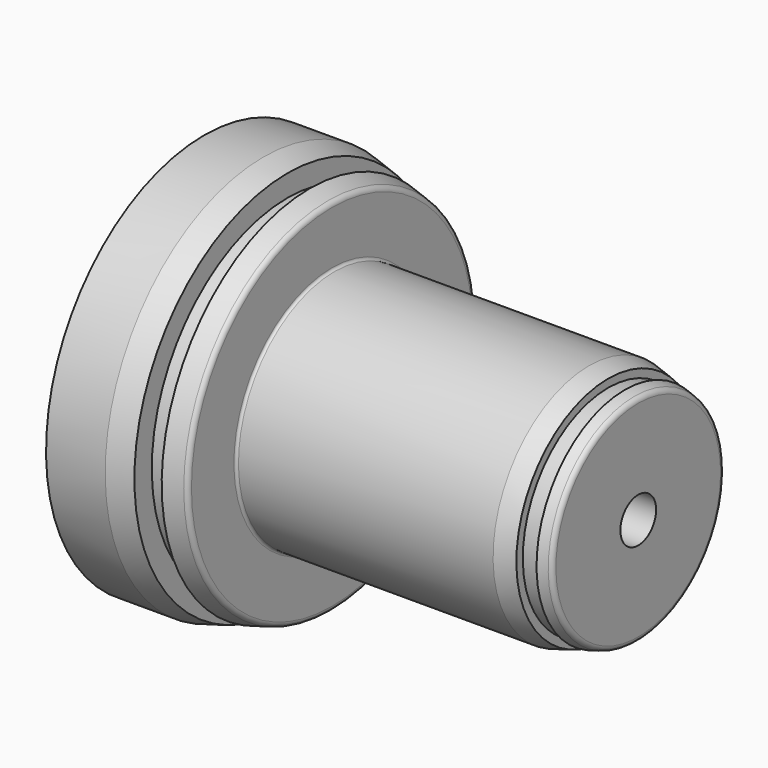
from build123d import *

# Parameters (mm, degrees)
F3_D     = 17.5
F3_DEPTH = 32
F3_TIP   = 5.2575304165
F5_D     = 17.5
F5_DEPTH = 32
F5_TIP   = 5.2575304165


with BuildPart() as f1:
    # F0 (on Front) → F1 (revolve)
    with BuildSketch(Plane.XZ):
        with BuildLine():
            Line((0, 77.5), (0, 0))
            Line((0, 0), (170, 0))
            Line((170, 0), (170, 40.304846024))
            ThreePointArc((170, 40.304846024), (169.5867066806, 41.5223688821), (168.5176380902, 42.2366976766))
            Line((168.5176380902, 42.2366976766), (164.75, 43.2462332603))
            Line((164.75, 43.2462332603), (164.75, 41.8395))
            Line((164.75, 41.8395), (158.25, 41.8395))
            Line((158.25, 41.8395), (158.25, 44.9879030111))
            Line((158.25, 44.9879030111), (150.7407518075, 47))
            Line((150.7407518075, 47), (51, 47))
            ThreePointArc((51, 47), (50.2928932188, 47.2928932188), (50, 48))
            Line((50, 48), (50, 68.7798354631))
            ThreePointArc((50, 68.7798354631), (49.5867066806, 69.9973583211), (48.5176380902, 70.7116871157))
            Line((48.5176380902, 70.7116871157), (41.4, 72.6188524939))
            Line((41.4, 72.6188524939), (41.4, 66.4565))
            Line((41.4, 66.4565), (32.6, 66.4565))
            Line((32.6, 66.4565), (32.6, 74.9768053873))
            Line((32.6, 74.9768053873), (23.1833095082, 77.5))
            Line((23.1833095082, 77.5), (0, 77.5))
        make_face()
    revolve(axis=Axis((85, 0, 0), (1, 0, 0)))

    # F3
    with Locations(Plane(origin=(0, 0, 0), x_dir=(0, -1, 0), z_dir=(-1, 0, 0))):
        with Locations((0, 0)):
            Hole(F3_D / 2, depth=F3_DEPTH)
            with Locations((0, 0, -(F3_DEPTH + F3_TIP / 2))):  # 118° drill point
                Cone(0, F3_D / 2, F3_TIP, mode=Mode.SUBTRACT)

    # F5
    with Locations(Plane.YZ.offset(170)):
        with Locations((0, 0)):
            Hole(F5_D / 2, depth=F5_DEPTH)
            with Locations((0, 0, -(F5_DEPTH + F5_TIP / 2))):  # 118° drill point
                Cone(0, F5_D / 2, F5_TIP, mode=Mode.SUBTRACT)


solid = f1.part
